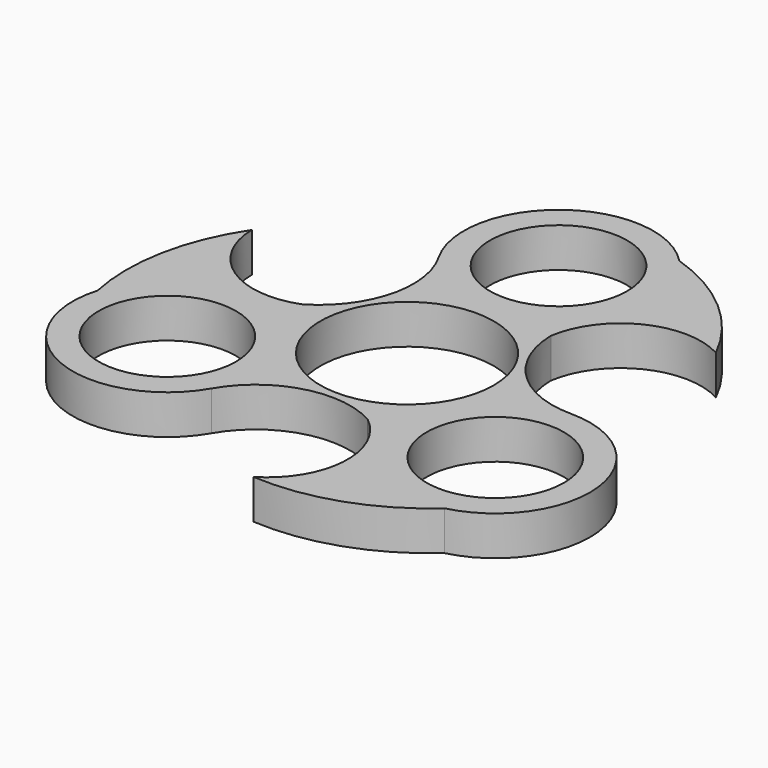
from build123d import *

# Parameters (mm, degrees)
F0_R     = 11.049
F0_R_2   = 13.97
F1_DEPTH = 6.35


with BuildPart() as f1:
    # F0 (on Top) → F1 (new body)
    with BuildSketch(Plane.XY):
        with BuildLine():
            ThreePointArc((30.236339, 24.344128), (22.300275, 34.624256), (11.001122, 41.026701))
            ThreePointArc((11.001122, 41.026701), (-9.14954, 42.667843), (-13.198227, 22.86))
            ThreePointArc((-13.198227, 22.86), (-11.642596, 11.421458), (-18.552146, 2.173844))
            ThreePointArc((-18.552146, 2.173844), (-30.464465, 3.49048), (-36.200803, 14.013374))
            ThreePointArc((-36.200803, 14.013374), (-41.135623, 2.000477), (-41.030727, -10.986099))
            ThreePointArc((-41.030727, -10.986099), (-32.376666, -29.257655), (-13.198227, -22.86))
            ThreePointArc((-13.198227, -22.86), (-4.069975, -15.793513), (7.393468, -17.153552))
            ThreePointArc((7.393468, -17.153552), (12.209388, -28.12824), (5.964463, -38.357502))
            ThreePointArc((5.964463, -38.357502), (18.835348, -36.624733), (30.029604, -30.040602))
            ThreePointArc((30.029604, -30.040602), (41.526206, -13.410188), (26.396454, 0))
            ThreePointArc((26.396454, 0), (15.712571, 4.372055), (11.158677, 14.979707))
            ThreePointArc((11.158677, 14.979707), (18.255077, 24.63776), (30.236339, 24.344128))
        make_face()
        with Locations((-26.396454, -15.24)):
            Circle(F0_R, mode=Mode.SUBTRACT)
        Circle(F0_R_2, mode=Mode.SUBTRACT)
        with Locations((26.396454, -15.24)):
            Circle(F0_R, mode=Mode.SUBTRACT)
        with Locations((0, 30.48)):
            Circle(F0_R, mode=Mode.SUBTRACT)
    extrude(amount=F1_DEPTH)


solid = f1.part
